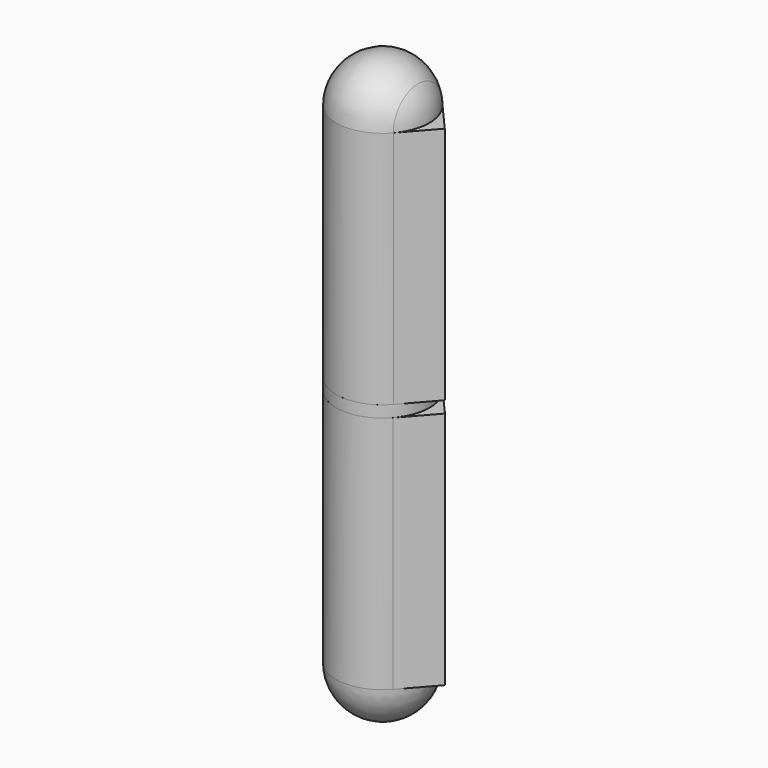
from build123d import *

# Parameters (mm, degrees)
F3_DEPTH  = 32.54375
F4_R      = 3.96875
F5_DEPTH  = 19.05
F7_ANGLE  = 180
F10_R     = 6.35
F10_R_2   = 3.96875
F11_DEPTH = 1.5875
F12_R     = 3.96875
F13_DEPTH = 32.5374


with BuildPart() as f2:
    # F1 (on Right) → F2 (revolve)
    with BuildSketch(Plane.YZ):
        with BuildLine():
            Line((0, 0), (6.35, 0))
            ThreePointArc((6.35, 0), (4.490128, 4.490128), (0, 6.35))
            Line((0, 6.35), (0, 0))
        make_face()
    revolve(axis=Axis((0, 0, 3.175), (0, 0, 1)))

    # F0 (on Top) → F3 (join)
    with BuildSketch(Plane.XY):
        with BuildLine():
            ThreePointArc((4.759103, -4.203979), (5.938973, -2.247465), (6.35, 0))
            ThreePointArc((6.35, 0), (5.938973, 2.247465), (4.759103, 4.203979))
            ThreePointArc((4.759103, 4.203979), (-6.35, 0), (4.759103, -4.203979))
        make_face()
        with BuildLine():
            ThreePointArc((4.759103, 4.203979), (5.938973, 2.247465), (6.35, 0))
            ThreePointArc((6.35, 0), (5.938973, -2.247465), (4.759103, -4.203979))
            Line((4.759103, -4.203979), (8.47271, 0))
            Line((8.47271, 0), (4.759103, 4.203979))
        make_face()
    extrude(amount=-F3_DEPTH)

    # F4 (on face) → F5 (join)
    with BuildSketch(Plane(origin=(0, 0, -32.54375), x_dir=(1, 0, 0), z_dir=(0, 0, -1))):
        Circle(F4_R)
    extrude(amount=F5_DEPTH)


with BuildPart() as f2_1:
    # F7: moved
    add(f2.part.rotate(Axis((-28.933963, 0, 0), (-1, 0, 0)), F7_ANGLE))


with BuildPart() as f8_1:
    # F8: copy of F2
    add(f2_1.part)


with BuildPart() as f11:
    # F10 (on face) → F11 (new body)
    with BuildSketch(Plane.XY.offset(32.54375)):
        Circle(F10_R)
        Circle(F10_R_2, mode=Mode.SUBTRACT)
    extrude(amount=F11_DEPTH)


with BuildPart() as f13:
    # F12 (on face) → F13 (new body)
    with BuildSketch(Plane.XY.offset(34.13125)):
        with BuildLine():
            ThreePointArc((4.777652, 4.182886), (5.943929, 2.234324), (6.35, 0))
            ThreePointArc((6.35, 0), (5.943929, -2.234324), (4.777652, -4.182886))
            Line((4.777652, -4.182886), (8.439815, 0))
            Line((8.439815, 0), (4.777652, 4.182886))
        make_face()
        with BuildLine():
            ThreePointArc((4.777652, -4.182886), (5.943929, -2.234324), (6.35, 0))
            ThreePointArc((6.35, 0), (5.943929, 2.234324), (4.777652, 4.182886))
            ThreePointArc((4.777652, 4.182886), (-6.35, 0), (4.777652, -4.182886))
        make_face()
        Circle(F12_R, mode=Mode.SUBTRACT)
    extrude(amount=F13_DEPTH)

    # F14 (on face) → F15 (revolve)
    with BuildSketch(Plane.XY.offset(66.66865)):
        with BuildLine():
            Line((3.96875, 0), (6.35, 0))
            ThreePointArc((6.35, 0), (5.943929, 2.234324), (4.777652, 4.182886))
            ThreePointArc((4.777652, 4.182886), (-2.234324, 5.943929), (-6.35, 0))
            Line((-6.35, 0), (-3.96875, 0))
            ThreePointArc((-3.96875, 0), (0, 3.96875), (3.96875, 0))
        make_face()
    revolve(axis=Axis((0, 0, 66.66865), (-1, 0, 0)))


solid = Compound([f2_1.part, f11.part, f13.part])
